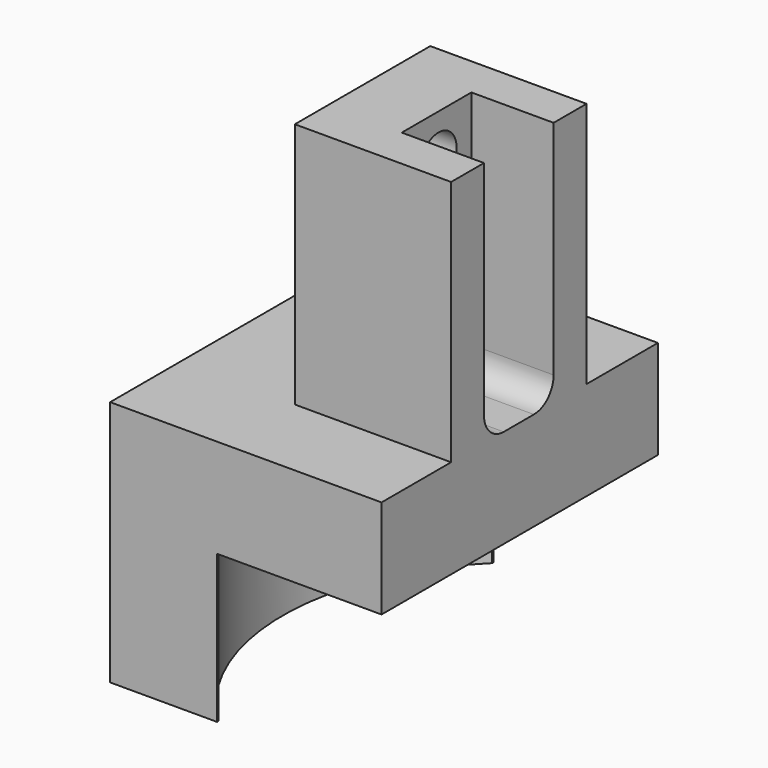
from build123d import *

# Parameters (mm, degrees)
F1_DEPTH = 42
F3_DEPTH = 18
F4_W     = 10.5735106468
F4_H     = 30
F4_W_2   = 10.8430571854
F5_DEPTH = 19
F7_DEPTH = 10
F9_D     = 5.5


with BuildPart() as f1:
    # F0 (on Front) → F1 (new body)
    with BuildSketch(Plane.XZ):
        Polygon((-16.5, -30), (-3.5, -30), (-3.5, -12), (16.5, -12), (16.5, 30), (-2.5, 30), (-2.5, 0), (-16.5, 0), align=None)
    extrude(amount=F1_DEPTH)

    # F2 (on face) → F3 (cut)
    with BuildSketch(Plane(origin=(0, 0, -30), x_dir=(1, 0, 0), z_dir=(0, 0, -1))):
        with BuildLine():
            Line((-3.5, 0.1923091142), (-3.5, 41.8076908858))
            ThreePointArc((-3.5, 41.8076908858), (-12.3, 21), (-3.5, 0.1923091142))
        make_face()
    extrude(amount=-F3_DEPTH, mode=Mode.SUBTRACT)

    # F4 (on face) → F5 (cut, through all)
    with BuildSketch(Plane.YZ.offset(16.5)):
        with Locations((-36.7132446766, 15)):
            Rectangle(F4_W, F4_H)
        with Locations((-5.4215285927, 15)):
            Rectangle(F4_W_2, F4_H)
    extrude(amount=-F5_DEPTH, mode=Mode.SUBTRACT)

    # F6 (on face) → F7 (cut)
    with BuildSketch(Plane.YZ.offset(16.5)):
        with BuildLine():
            Line((-15.8430571854, 30), (-26.4264893532, 30))
            Line((-26.4264893532, 30), (-26.4264893532, 3))
            ThreePointArc((-26.4264893532, 3), (-25.5478096967, 0.8786796564), (-23.4264893532, 0))
            Line((-23.4264893532, 0), (-18.8430571854, 0))
            ThreePointArc((-18.8430571854, 0), (-16.7217368419, 0.8786796564), (-15.8430571854, 3))
            Line((-15.8430571854, 3), (-15.8430571854, 30))
        make_face()
    extrude(amount=-F7_DEPTH, mode=Mode.SUBTRACT)

    # F9 (through all)
    with Locations(Plane.YZ.offset(6.5)):
        with Locations((-20.8430571854, 25), (-20.8430571854, 16)):
            Hole(F9_D / 2)


solid = f1.part
